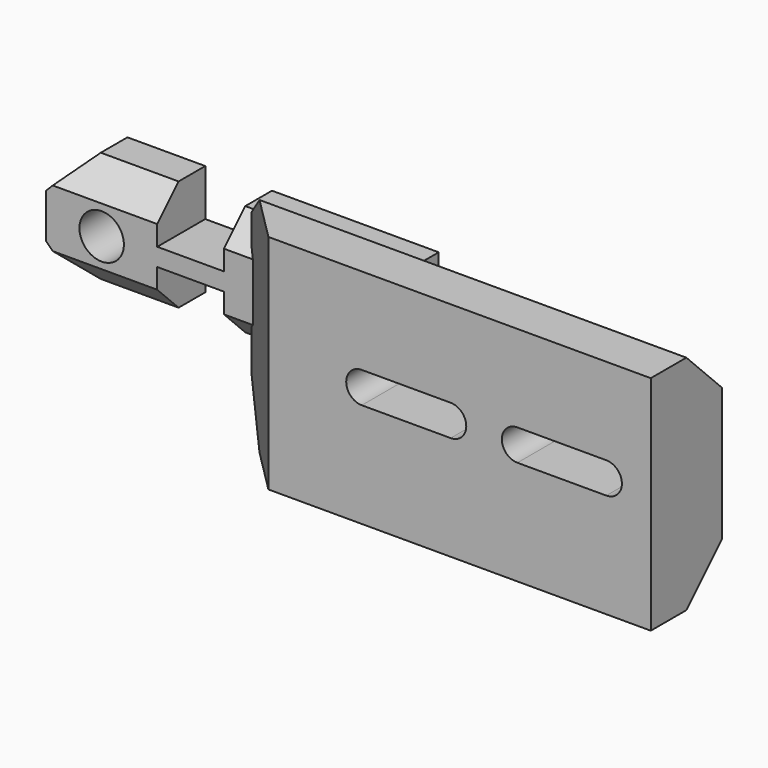
from build123d import *

# Parameters (mm, degrees)
BOX013_W               = 3
BOX013_H               = 10
BOX013_DEPTH           = 2.85
BOX014_W               = 3
BOX014_H               = 10
BOX014_DEPTH           = 3.25
BOX012_W               = 4
BOX012_H               = 10
BOX012_DEPTH           = 1.4
CYLINDER012_R          = 0.7
CYLINDER012_DEPTH      = 10
CYLINDER012_ROLL_ANGLE = 90
CYLINDER013_R          = 0.7
CYLINDER013_DEPTH      = 10
CYLINDER013_ROLL_ANGLE = 90
BOX011_W               = 21
BOX011_H               = 4
BOX011_DEPTH           = 10
CHAMFER003_SIZE        = 3.8
CYLINDER014_R          = 1
CYLINDER014_DEPTH      = 5
CYLINDER014_ROLL_ANGLE = 90
BOX010_W               = 15.5
BOX010_H               = 2.7
BOX010_DEPTH           = 5
CHAMFER001_SIZE        = 1.5
CHAMFER002_SIZE        = 1.2
CHAMFER005_SIZE        = 2


with BuildPart() as cube008:
    # Box013 → Box013 (new body)
    with BuildSketch(Plane(origin=(-19, -19, -42), x_dir=(1, 0, 0), z_dir=(0, 0, 1))):
        with Locations((1.5, 5)):
            Rectangle(BOX013_W, BOX013_H)
    extrude(amount=BOX013_DEPTH)


with BuildPart() as fusion007008:
    # Box014 → Box014 (new body)
    with BuildSketch(Plane(origin=(-19, -19, -38.35), x_dir=(1, 0, 0), z_dir=(0, 0, 1))):
        with Locations((1.5, 5)):
            Rectangle(BOX014_W, BOX014_H)
    extrude(amount=BOX014_DEPTH)

    # Fusion007008: union Cube008
    add(cube008.part)


with BuildPart() as cube007:
    # Box012 → Box012 (new body)
    with BuildSketch(Plane(origin=(-7, -24.5, -39.3), x_dir=(1, 0, 0), z_dir=(0, 0, 1))):
        with Locations((2, 5)):
            Rectangle(BOX012_W, BOX012_H)
    extrude(amount=BOX012_DEPTH)


with BuildPart() as cylinder003:
    # Cylinder012 → Cylinder012 (new body)
    with BuildSketch(Plane.XY):
        Circle(CYLINDER012_R)
    extrude(amount=CYLINDER012_DEPTH)


with BuildPart() as cylinder003_1:
    # Cylinder012 roll: moved
    add(cylinder003.part.rotate(Axis((0, 0, 0), (1, 0, 0)), CYLINDER012_ROLL_ANGLE))


with BuildPart() as cylinder003_2:
    # Cylinder012 placement: moved
    add(cylinder003_1.part.moved(Location((-3, -14.5, -38.6))))


with BuildPart() as cylinder004:
    # Cylinder013 → Cylinder013 (new body)
    with BuildSketch(Plane.XY):
        Circle(CYLINDER013_R)
    extrude(amount=CYLINDER013_DEPTH)


with BuildPart() as cylinder004_1:
    # Cylinder013 roll: moved
    add(cylinder004.part.rotate(Axis((0, 0, 0), (1, 0, 0)), CYLINDER013_ROLL_ANGLE))


with BuildPart() as cylinder004_2:
    # Cylinder013 placement: moved
    add(cylinder004_1.part.moved(Location((-7, -14.5, -38.6))))


with BuildPart() as fusion007005:
    # Fusion007005 base: copy of Cylinder004
    add(cylinder004_2.part)

    # Fusion007005: union Cube007, Cylinder003
    add(cube007.part)
    add(cylinder003_2.part)


with BuildPart() as fusion007005_1:
    # Fusion007005 placement: moved
    add(fusion007005.part.moved(Location((7, 0, 0))))


with BuildPart() as fusion007006:
    # Fusion007006 base: copy of Cylinder004
    add(cylinder004_2.part)

    # Fusion007006: union Cube007, Cylinder003
    add(cube007.part)
    add(cylinder003_2.part)


with BuildPart() as chamfer003:
    # Box011 → Box011 (new body)
    with BuildSketch(Plane(origin=(-15, -21, -44), x_dir=(1, 0, 0), z_dir=(0, 0, 1))):
        with Locations((10.5, 2)):
            Rectangle(BOX011_W, BOX011_H)
    extrude(amount=BOX011_DEPTH)

    # Cut007: cut Fusion007006
    add(fusion007006.part, mode=Mode.SUBTRACT)

    # Cut008: cut Fusion007005
    add(fusion007005_1.part, mode=Mode.SUBTRACT)

    # Chamfer003
    chamfer003_edges = [chamfer003.edges().sort_by_distance(p)[0] for p in [
        (-15, -21, -39),
    ]]
    chamfer(chamfer003_edges, length=CHAMFER003_SIZE)


with BuildPart() as cylinder005:
    # Cylinder014 → Cylinder014 (new body)
    with BuildSketch(Plane.XY):
        Circle(CYLINDER014_R)
    extrude(amount=CYLINDER014_DEPTH)


with BuildPart() as cylinder005_1:
    # Cylinder014 roll: moved
    add(cylinder005.part.rotate(Axis((0, 0, 0), (1, 0, 0)), CYLINDER014_ROLL_ANGLE))


with BuildPart() as cylinder005_2:
    # Cylinder014 placement: moved
    add(cylinder005_1.part.moved(Location((-21.5, -13.5, -38.75))))


with BuildPart() as final_connectingrod:
    # Box010 → Box010 (new body)
    with BuildSketch(Plane(origin=(-24, -17.5, -41.25), x_dir=(1, 0, 0), z_dir=(0, 0, 1))):
        with Locations((7.75, 1.35)):
            Rectangle(BOX010_W, BOX010_H)
    extrude(amount=BOX010_DEPTH)

    # Cut009: cut Cylinder005
    add(cylinder005_2.part, mode=Mode.SUBTRACT)

    # Chamfer001
    chamfer001_edges = [final_connectingrod.edges().sort_by_distance(p)[0] for p in [
        (-24, -16.15, -36.25),
        (-24, -16.15, -41.25),
    ]]
    chamfer(chamfer001_edges, length=CHAMFER001_SIZE)

    # Chamfer002
    chamfer002_edges = [final_connectingrod.edges().sort_by_distance(p)[0] for p in [
        (-15.5, -17.5, -41.25),
        (-15.5, -17.5, -36.25),
    ]]
    chamfer(chamfer002_edges, length=CHAMFER002_SIZE)

    # Fusion007007: union Chamfer003
    add(chamfer003.part)

    # Chamfer005
    chamfer005_edges = [final_connectingrod.edges().sort_by_distance(p)[0] for p in [
        (-4.5, -17, -34),
        (-4.5, -17, -44),
    ]]
    chamfer(chamfer005_edges, length=CHAMFER005_SIZE)

    # Cut010: cut Fusion007008
    add(fusion007008.part, mode=Mode.SUBTRACT)


solid = final_connectingrod.part
